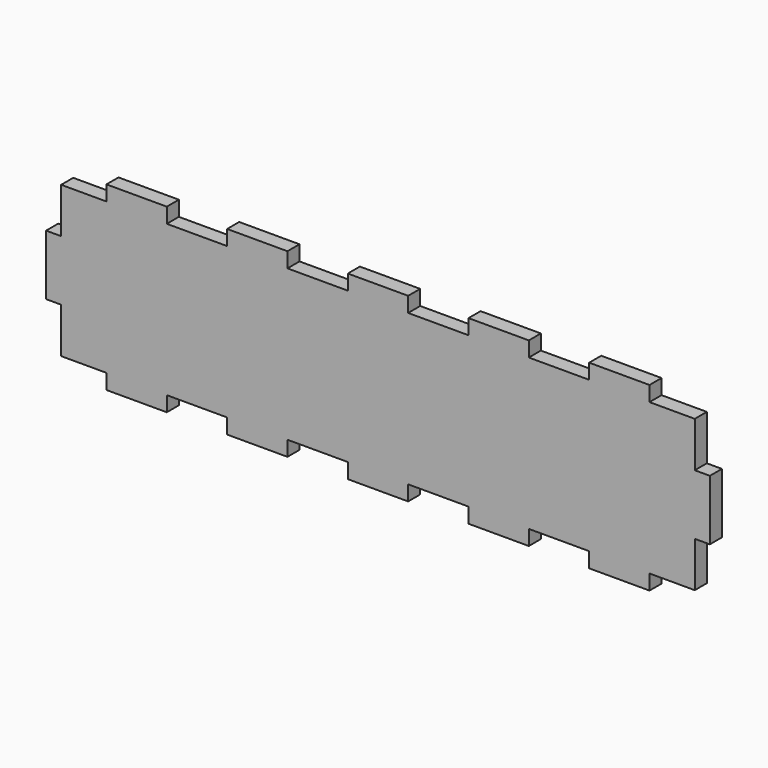
from build123d import *

# Parameters (mm, degrees)
F1_DEPTH = 2.5


with BuildPart() as f1:
    # F0 (on Front) → F1 (new body)
    with BuildSketch(Plane.XZ):
        Polygon((45, 12.5), (45, 15), (35, 15), (35, 12.5), (25, 12.5), (25, 15), (15, 15), (15, 12.5), (5, 12.5), (5, 15), (-5, 15), (-5, 12.5), (-15, 12.5), (-15, 15), (-25, 15), (-25, 12.5), (-35, 12.5), (-35, 15), (-45, 15), (-45, 12.5), (-52.5, 12.5), (-52.5, 5), (-55, 5), (-55, -5), (-52.5, -5), (-52.5, -12.5), (-45, -12.5), (-45, -15), (-35, -15), (-35, -12.5), (-25, -12.5), (-25, -15), (-15, -15), (-15, -12.5), (-5, -12.5), (-5, -15), (5, -15), (5, -12.5), (15, -12.5), (15, -15), (25, -15), (25, -12.5), (35, -12.5), (35, -15), (45, -15), (45, -12.5), (52.5, -12.5), (52.5, -5), (55, -5), (55, 5), (52.5, 5), (52.5, 12.5), align=None)
    extrude(amount=F1_DEPTH)


solid = f1.part
